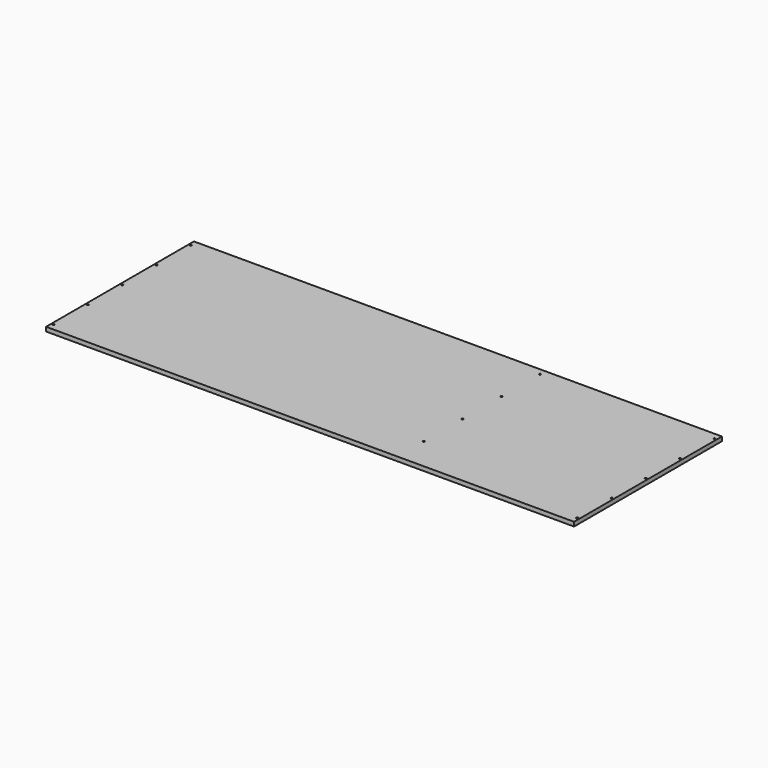
from build123d import *

# Parameters (mm, degrees)
F0_W     = 2000
F0_H     = 700
F1_DEPTH = 8
F3_D     = 7


with BuildPart() as f1:
    # F0 (on Top) → F1 (new body, symmetric)
    with BuildSketch(Plane.XY):
        Rectangle(F0_W, F0_H)
    extrude(amount=F1_DEPTH, both=True)

    # F3 (through all)
    with Locations(Plane.XY.offset(8)):
        with Locations((-992, 325), (-992, 162.5), (-992, 0), (-992, -162.5), (-992, -325), (992, 325), (992, 162.5), (992, 0), (992, -162.5), (992, -325), (331, -225), (331, -42), (331, 142), (331, 325)):
            Hole(F3_D / 2)


solid = f1.part
